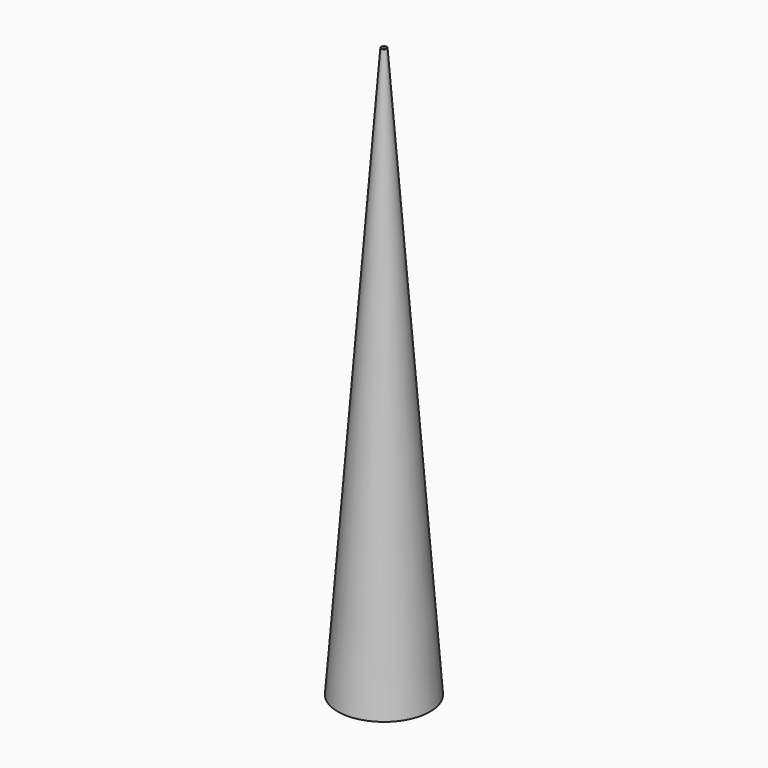
from build123d import *

# Parameters (mm, degrees)
F2_T = -0.254


with BuildPart() as f1:
    # F0 (on Front) → F1 (revolve)
    with BuildSketch(Plane.XZ):
        Polygon((-19.048262, -52.042719), (0, -52.042719), (0, 182.871923), (-1.162861, 182.871923), align=None)
    revolve(axis=Axis((0, 0, 65.414602), (0, 0, -1)))

    # F2
    f2_openings = [f1.faces().sort_by_distance(p)[0] for p in [
        (0, 0, -52.042719),
        (0, 0, 182.871923),
    ]]
    offset(amount=F2_T, openings=f2_openings)


solid = f1.part
